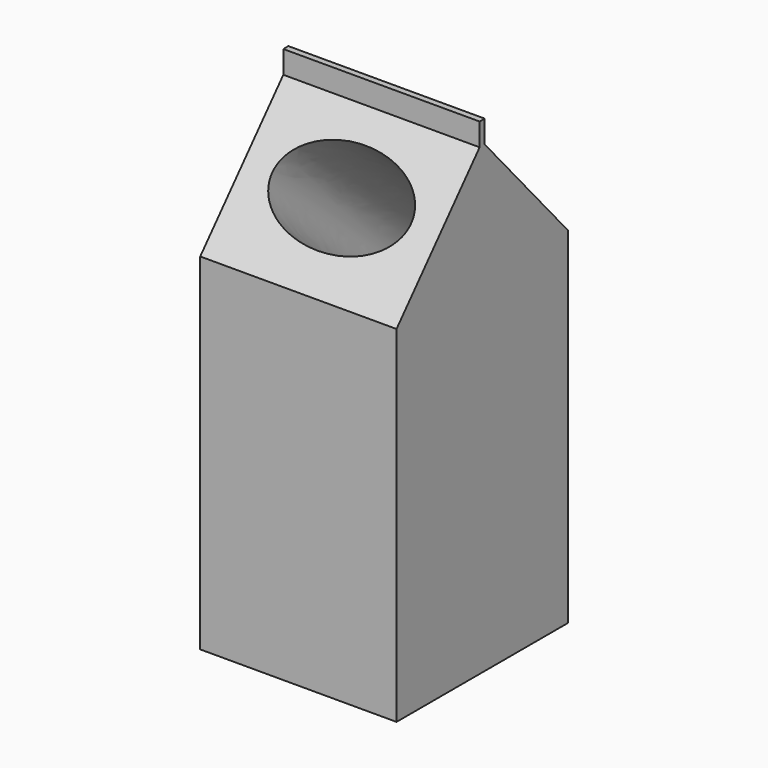
from build123d import *

# Parameters (mm, degrees)
F1_DEPTH = 23.876
F3_DEPTH = 89.408


with BuildPart() as f1:
    # F0 (on Right) → F1 (new body, symmetric)
    with BuildSketch(Plane.YZ):
        Polygon((-26.030997, 42.073354), (-26.030997, -42.073354), (26.030997, -42.073354), (26.030997, 42.073354), (0.771328, 70.710652), (0.771328, 76.229982), (0, 76.229982), (-0.771328, 76.229982), (-0.771328, 70.710652), align=None)
    extrude(amount=F1_DEPTH, both=True)

    # F2 (on face) → F3 (cut)
    with BuildSketch(Plane(origin=(0, -35.512522, 31.323995), x_dir=(1, 0, 0), z_dir=(0, -0.749949, 0.661496))):
        with BuildLine():
            add(Edge.make_bspline(
                [(-16.881252, 34.207836), (-16.881252, 15.07148), (8.440626, 24.639658), (33.762503, 34.207836), (8.440626, 43.776014), (-16.881252, 53.344191), (-16.881252, 34.207836)],
                knots=[0, 0, 0, 2.094395, 2.094395, 4.18879, 4.18879, 6.283185, 6.283185, 6.283185], degree=2, weights=[1, 0.5, 1, 0.5, 1, 0.5, 1]))
        make_face()
    extrude(amount=-F3_DEPTH, mode=Mode.SUBTRACT)


solid = f1.part
